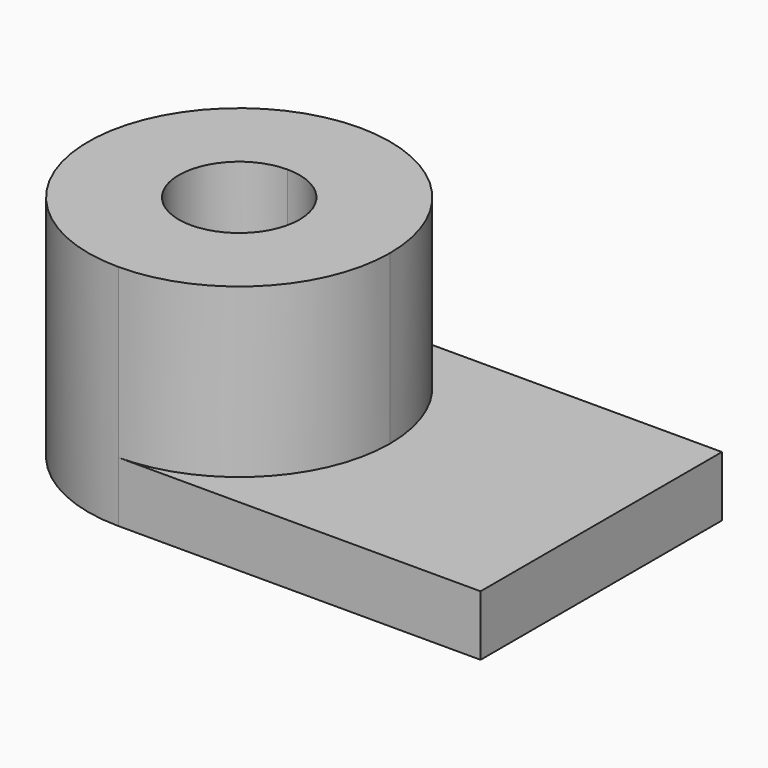
from build123d import *

# Parameters (mm, degrees)
F1_DEPTH = 48.006
F2_DEPTH = 12.7


with BuildPart() as f1:
    # F0 (on Top) → F1 (new body)
    with BuildSketch(Plane.XY):
        with BuildLine():
            ThreePointArc((-29.534948, 0), (-38.834308, 22.45064), (-61.284948, 31.75))
            Line((-61.284948, 31.75), (-61.284948, 12.7))
            ThreePointArc((-61.284948, 12.7), (-52.304692, 8.980256), (-48.584948, 0))
            ThreePointArc((-48.584948, 0), (-52.304692, -8.980256), (-61.284948, -12.7))
            Line((-61.284948, -12.7), (-61.284948, -31.75))
            ThreePointArc((-61.284948, -31.75), (-38.834308, -22.45064), (-29.534948, 0))
        make_face()
        with BuildLine():
            Line((-61.284948, 12.7), (-61.284948, 31.75))
            ThreePointArc((-61.284948, 31.75), (-93.034948, 0), (-61.284948, -31.75))
            Line((-61.284948, -31.75), (-61.284948, -12.7))
            ThreePointArc((-61.284948, -12.7), (-73.984948, 0), (-61.284948, 12.7))
        make_face()
    extrude(amount=F1_DEPTH)

    # F0 (on Top) → F2 (join)
    with BuildSketch(Plane.XY):
        with BuildLine():
            Line((14.915052, 31.75), (-61.284948, 31.75))
            ThreePointArc((-61.284948, 31.75), (-38.834308, 22.45064), (-29.534948, 0))
            ThreePointArc((-29.534948, 0), (-38.834308, -22.45064), (-61.284948, -31.75))
            Line((-61.284948, -31.75), (14.915052, -31.75))
            Line((14.915052, -31.75), (14.915052, 31.75))
        make_face()
    extrude(amount=F2_DEPTH)


solid = f1.part
